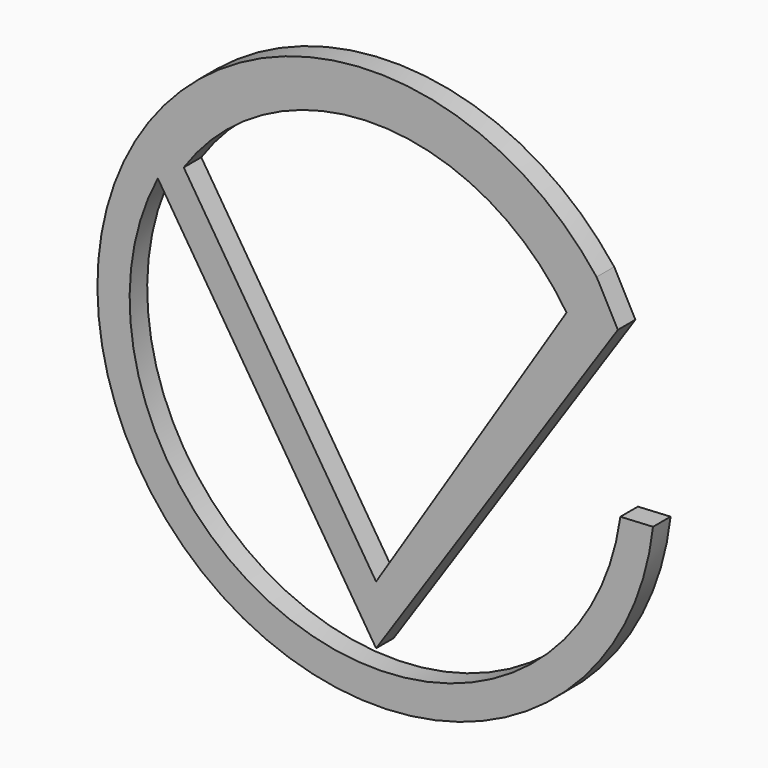
from build123d import *

# Parameters (mm, degrees)
F1_DEPTH = 3


with BuildPart() as f1:
    # F0 (on Front) → F1 (new body)
    with BuildSketch(Plane.XZ):
        with BuildLine():
            Line((33.051588, 17.876159), (30.149128, 23.294637))
            ThreePointArc((30.149128, 23.294637), (-36.690424, -10.26756), (37.860809, -4.262528))
            Line((37.860809, -4.262528), (33.393364, -4.506392))
            ThreePointArc((33.393364, -4.506392), (33.384315, -4.572946), (33.375133, -4.639482))
            ThreePointArc((33.375133, -4.639482), (-10.299233, -32.083487), (-29.839553, 15.653286))
            Line((-29.839553, 15.653286), (0, -31.200437))
            Line((0, -31.200437), (33.051588, 17.876159))
        make_face()
        with BuildLine():
            Line((0, -23.174103), (-26.297564, 18.11803))
            ThreePointArc((-26.297564, 18.11803), (-0.009919, 31.880483), (26.034596, 17.663288))
            Line((26.034596, 17.663288), (0, -23.174103))
        make_face(mode=Mode.SUBTRACT)
    extrude(amount=F1_DEPTH)


solid = f1.part
